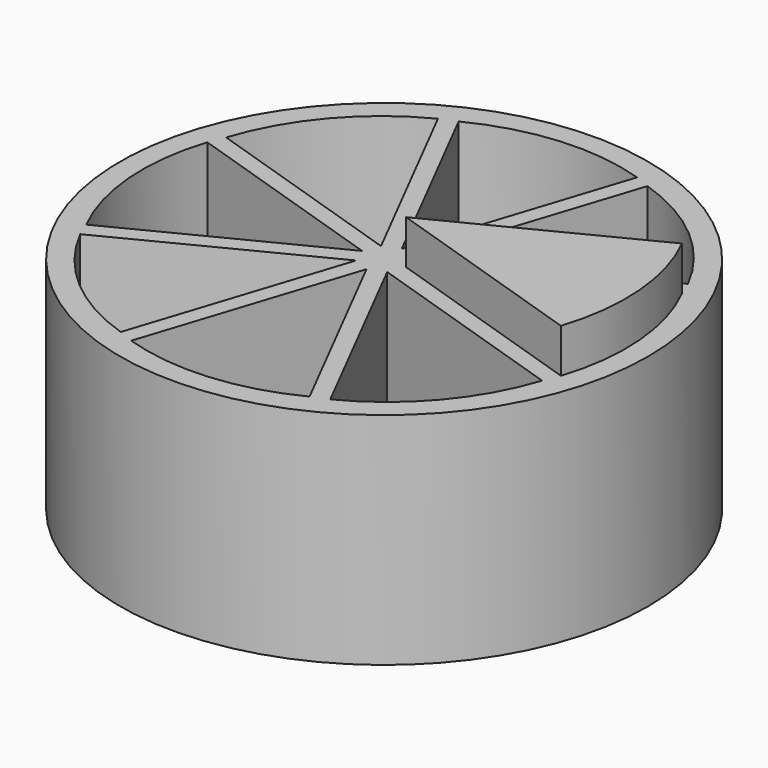
from build123d import *

# Parameters (mm, degrees)
CYLINDER001_R               = 1
CYLINDER001_DEPTH           = 10
CYLINDER002_W               = 10
CYLINDER002_H               = 10
CYLINDER002_ANGLE           = 45
CYLINDER002_PLACEMENT_ANGLE = 18
ARRAY_COUNT                 = 8
CYLINDER_R                  = 12
CYLINDER_DEPTH              = 10
CYLINDER003_W               = 10
CYLINDER003_H               = 10
CYLINDER003_ANGLE           = 45
CYLINDER003_PLACEMENT_ANGLE = 18


with BuildPart() as cilindre001:
    # Cylinder001 → Cylinder001 (new body)
    with BuildSketch(Plane.XY):
        Circle(CYLINDER001_R)
    extrude(amount=CYLINDER001_DEPTH)


with BuildPart() as array:
    # Cylinder002 → Cylinder002 (revolve)
    with BuildSketch(Plane.XZ):
        with Locations((5, 5)):
            Rectangle(CYLINDER002_W, CYLINDER002_H)
    revolve(axis=Axis((0, 0, 0), (0, 0, 1)), revolution_arc=CYLINDER002_ANGLE)


with BuildPart() as array_1:
    # Cylinder002 placement: moved
    add(array.part.moved(Location((1, 0, 1))).rotate(Axis((1, 0, 1), (0, 0, -1)), CYLINDER002_PLACEMENT_ANGLE))

    # Array: Array ×8 about axis
    array_axis = Axis((0, 0, 0), (0, 0, 1))


with BuildPart() as array_2:
    add(array_1.part)
    for i in range(1, ARRAY_COUNT):
        add(array_1.part.rotate(array_axis, i * 360 / ARRAY_COUNT))


with BuildPart() as cut:
    # Cylinder → Cylinder (new body)
    with BuildSketch(Plane.XY):
        Circle(CYLINDER_R)
    extrude(amount=CYLINDER_DEPTH)

    # Cut: cut Array
    add(array_2.part, mode=Mode.SUBTRACT)


with BuildPart() as cilindre003:
    # Cylinder003 → Cylinder003 (revolve)
    with BuildSketch(Plane.XZ):
        with Locations((5, 5)):
            Rectangle(CYLINDER003_W, CYLINDER003_H)
    revolve(axis=Axis((0, 0, 0), (0, 0, 1)), revolution_arc=CYLINDER003_ANGLE)


with BuildPart() as cilindre003_1:
    # Cylinder003 placement: moved
    add(cilindre003.part.moved(Location((1, 0, 2))).rotate(Axis((1, 0, 2), (0, 0, -1)), CYLINDER003_PLACEMENT_ANGLE))


solid = Compound([cilindre001.part, cut.part, cilindre003_1.part])
